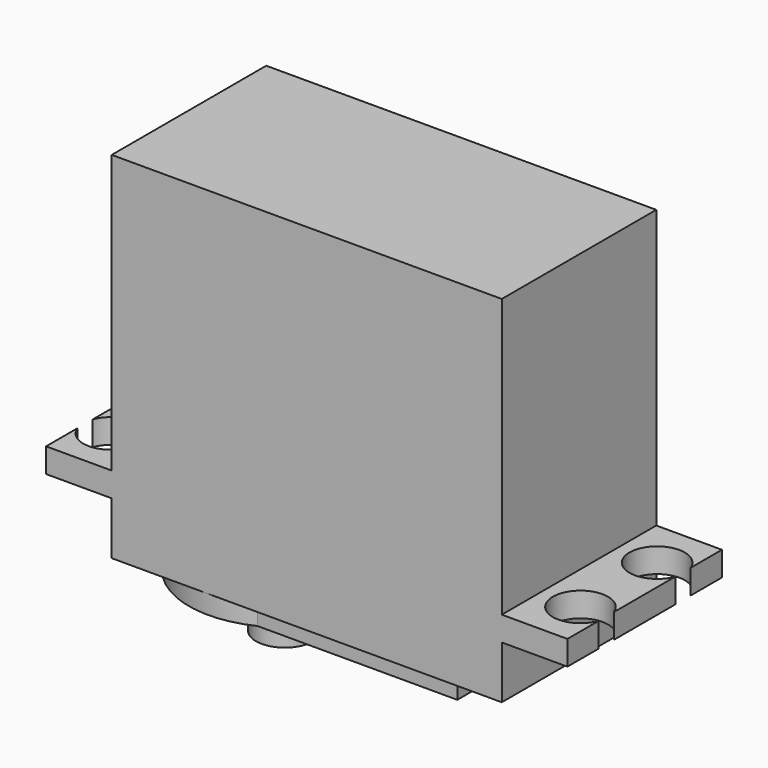
from build123d import *

# Parameters (mm, degrees)
SKETCH040_W             = 40.7
SKETCH040_H             = 20.15
PAD020_DEPTH            = 29
PAD021_DEPTH            = 2.55
SKETCH042_W             = 40.7
SKETCH042_H             = 20.15
PAD022_DEPTH            = 5.5
PAD023_DEPTH            = 2
SKETCH044_R             = 6.5
PAD024_DEPTH            = 1.3
SKETCH045_R             = 5.5
PAD025_DEPTH            = 0.7
SKETCH046_R             = 3
PAD026_DEPTH            = 3.5
BODY013_PLACEMENT_ANGLE = 180
BODY046_PLACEMENT_ANGLE = 180


with BuildPart() as part:
    # Sketch040 → Pad020 (new body)
    with BuildSketch(Plane.XY):
        Rectangle(SKETCH040_W, SKETCH040_H)
    extrude(amount=-PAD020_DEPTH)

    # Sketch041 (on Face5 of Pad020) → Pad021 (join)
    with BuildSketch(Plane.XY):
        with BuildLine():
            Line((-27.2, 10.075), (27.2, 10.075))
            Line((27.2, 10.075), (27.2, 6))
            ThreePointArc((27.2, 6), (21.620764, 5), (27.2, 4))
            Line((27.2, 4), (27.2, -4))
            ThreePointArc((27.2, -4), (21.620764, -5), (27.2, -6))
            Line((27.2, -6), (27.2, -10.075))
            Line((27.2, -10.075), (-27.2, -10.075))
            Line((-27.2, -10.075), (-27.2, -6))
            ThreePointArc((-27.2, -6), (-21.620764, -5), (-27.2, -4))
            Line((-27.2, 4), (-27.2, -4))
            ThreePointArc((-27.2, 4), (-21.620764, 5), (-27.2, 6))
            Line((-27.2, 10.075), (-27.2, 6))
        make_face()
    extrude(amount=PAD021_DEPTH)

    # Sketch042 (on Face5 of Pad021) → Pad022 (join)
    with BuildSketch(Plane.XY.offset(2.55)):
        Rectangle(SKETCH042_W, SKETCH042_H)
    extrude(amount=PAD022_DEPTH)

    # Sketch043 (on Face21 of Pad022) → Pad023 (join)
    with BuildSketch(Plane.XY.offset(8.05)):
        with BuildLine():
            ThreePointArc((5.991101, -9), (20.35, 0), (5.991101, 9))
            Line((5.991101, 9), (-14.85, 9))
            Line((-14.85, 9), (-14.85, 5))
            ThreePointArc((-14.85, 5), (-16.69017, 2.795085), (-17.35, 0))
            ThreePointArc((-17.35, 0), (-16.69017, -2.795085), (-14.85, -5))
            Line((-14.85, -5), (-14.85, -9))
            Line((-14.85, -9), (5.991101, -9))
        make_face()
    extrude(amount=PAD023_DEPTH)

    # Sketch044 (on Face34 of Pad023) → Pad024 (join)
    with BuildSketch(Plane.XY.offset(10.05)):
        with Locations((10.35, 0)):
            Circle(SKETCH044_R)
    extrude(amount=PAD024_DEPTH)

    # Sketch045 (on Face36 of Pad024) → Pad025 (join)
    with BuildSketch(Plane.XY.offset(11.35)):
        with Locations((10.35, 0)):
            Circle(SKETCH045_R)
    extrude(amount=PAD025_DEPTH)

    # Sketch046 (on Face38 of Pad025) → Pad026 (join)
    with BuildSketch(Plane.XY.offset(12.05)):
        with Locations((10.35, 0)):
            Circle(SKETCH046_R)
    extrude(amount=PAD026_DEPTH)


with BuildPart() as part_1:
    # Body013 placement: moved
    add(part.part.moved(Location((-58.5, 0, 88.5))).rotate(Axis((-58.5, 0, 88.5), (1, 0, 0)), BODY013_PLACEMENT_ANGLE))


with BuildPart() as part_2:
    # Body046 placement: moved
    add(part_1.part.rotate(Axis((0, 0, 0), (0, 0, 1)), BODY046_PLACEMENT_ANGLE))


solid = part_2.part
